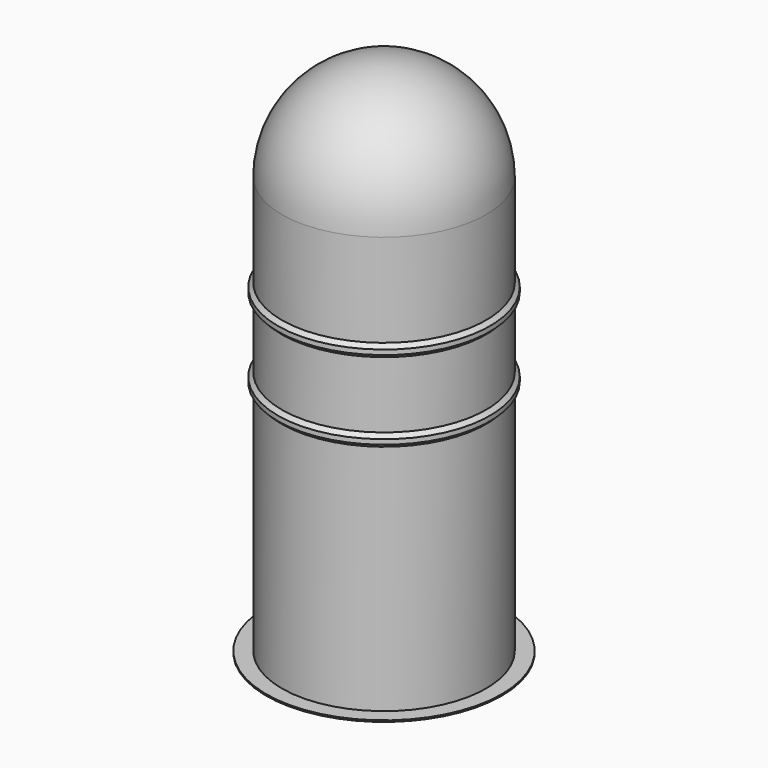
from build123d import *

# Parameters (mm, degrees)
F2_R     = 0.5
F3_R     = 12.114
F3_R_2   = 10.514
F4_DEPTH = 0.15


with BuildPart() as f1:
    # F0 (on Front) → F1 (revolve)
    with BuildSketch(Plane.XZ):
        Polygon((-10.514, 33.12), (-10.514, 33.52), (-10.914, 33.12), (-10.914, 32.62), (-10.514, 32.22), (-10.514, 32.62), align=None)
        Polygon((-10.914, 24.5), (-10.514, 24.1), (-10.514, 24.5), (-10.514, 25), (-10.514, 25.4), (-10.914, 25), align=None)
        with BuildLine():
            Line((-10.514, 0), (-9.314, 0))
            Line((-9.314, 0), (-9.314, 43.083))
            ThreePointArc((-9.314, 43.083), (-6.58599256, 49.66899256), (0, 52.397))
            Line((0, 52.397), (0, 53.597))
            ThreePointArc((0, 53.597), (-7.4345206974, 50.5175206974), (-10.514, 43.083))
            Line((-10.514, 43.083), (-10.514, 33.52))
            Line((-10.514, 33.52), (-10.514, 33.12))
            Line((-10.514, 33.12), (-10.514, 32.62))
            Line((-10.514, 32.62), (-10.514, 32.22))
            Line((-10.514, 32.22), (-10.514, 25.4))
            Line((-10.514, 25.4), (-10.514, 25))
            Line((-10.514, 25), (-10.514, 24.5))
            Line((-10.514, 24.5), (-10.514, 24.1))
            Line((-10.514, 24.1), (-10.514, 0))
        make_face()
    revolve(axis=Axis((0, 0, 26.1985), (0, 0, -1)))

    # F2
    f2_edges = [f1.edges().sort_by_distance(p)[0] for p in [
        (9.314, 0, 0),
    ]]
    fillet(f2_edges, radius=F2_R)

    # F3 (on Top) → F4 (join)
    with BuildSketch(Plane.XY):
        Circle(F3_R)
        Circle(F3_R_2, mode=Mode.SUBTRACT)
    extrude(amount=F4_DEPTH)


with BuildPart() as f1_1:
    # F5: moved
    add(f1.part.moved(Location((0, 13.716, 0))))


solid = f1_1.part
